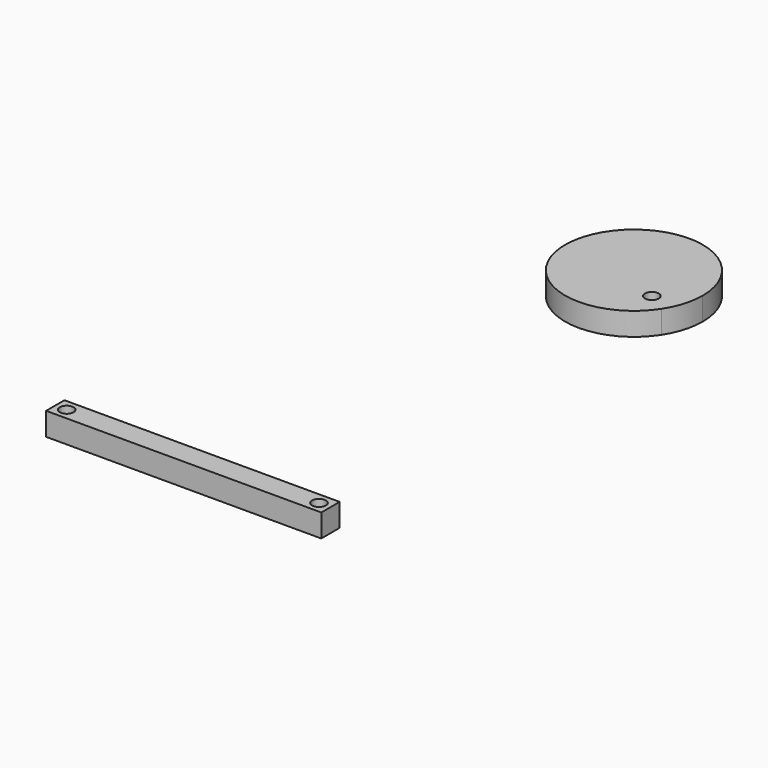
from build123d import *

# Parameters (mm, degrees)
F0_R     = 3.81
F1_DEPTH = 12.7
F3_DEPTH = 12.7


with BuildPart() as f1:
    # F0 (on Top) → F1 (new body)
    with BuildSketch(Plane.XY):
        Polygon((-78.509888, -2.281053), (-91.209888, -2.281053), (-91.209888, -14.981053), (-78.509888, -14.981053), (48.490112, -14.981053), (61.190112, -14.981053), (61.190112, -2.281053), (48.490112, -2.281053), align=None)
        with Locations((54.840112, -8.631053)):
            Circle(F0_R, mode=Mode.SUBTRACT)
        with Locations((-84.859888, -8.631053)):
            Circle(F0_R, mode=Mode.SUBTRACT)
    extrude(amount=F1_DEPTH)


with BuildPart() as f3:
    # F2 (on Top) → F3 (new body)
    with BuildSketch(Plane.XY):
        with BuildLine():
            ThreePointArc((56.93515, 225.833717), (61.541313, 235.788826), (63.120328, 246.643671))
            ThreePointArc((63.120328, 246.643671), (-11.500657, 257.498516), (56.93515, 225.833717))
        make_face()
        with BuildLine():
            ThreePointArc((50.000802, 232.604906), (49.851191, 231.547714), (49.414106, 230.573549))
            ThreePointArc((49.414106, 230.573549), (42.530413, 233.662098), (50.000802, 232.604906))
        make_face(mode=Mode.SUBTRACT)
    extrude(amount=F3_DEPTH)


solid = Compound([f1.part, f3.part])
